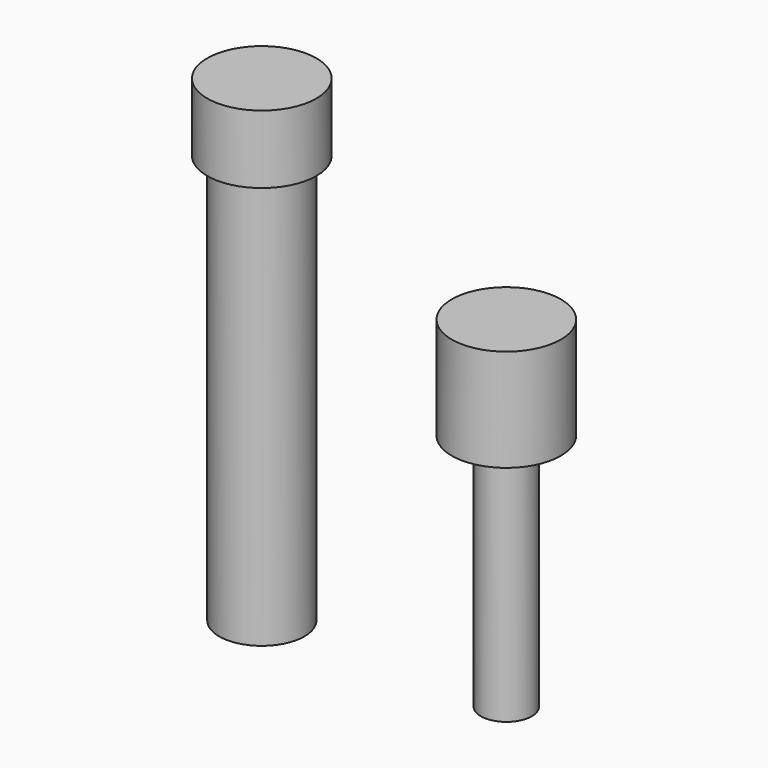
from build123d import *

# Parameters (mm, degrees)
F0_R     = 1.25
F1_DEPTH = 12
F2_R     = 1.6
F3_DEPTH = 2
F5_D     = 1.6
F5_DEPTH = 8
F5_TIP   = 0.4806884952
F6_R     = 1.6
F7_DEPTH = 3
F8_R     = 0.75
F9_DEPTH = 7


with BuildPart() as f1:
    # F0 (on Top) → F1 (new body)
    with BuildSketch(Plane.XY):
        Circle(F0_R)
    extrude(amount=F1_DEPTH)

    # F2 (on face) → F3 (join)
    with BuildSketch(Plane.XY.offset(12)):
        Circle(F2_R)
    extrude(amount=F3_DEPTH)

    # F5
    with Locations(Plane(origin=(0, 0, 0), x_dir=(1, 0, 0), z_dir=(0, 0, -1))):
        with Locations((0, 0)):
            Hole(F5_D / 2, depth=F5_DEPTH)
            with Locations((0, 0, -(F5_DEPTH + F5_TIP / 2))):  # 118° drill point
                Cone(0, F5_D / 2, F5_TIP, mode=Mode.SUBTRACT)


with BuildPart() as f7:
    # F6 (on face) → F7 (new body)
    with BuildSketch(Plane.XY.offset(14)):
        with Locations((11.8393795413, -5.8368734847)):
            Circle(F6_R)
    extrude(amount=-F7_DEPTH)

    # F8 (on face) → F9 (join)
    with BuildSketch(Plane(origin=(0, 0, 11), x_dir=(1, 0, 0), z_dir=(0, 0, -1))):
        with Locations((11.8393795413, 5.8368734847)):
            Circle(F8_R)
    extrude(amount=F9_DEPTH)


solid = Compound([f1.part, f7.part])
